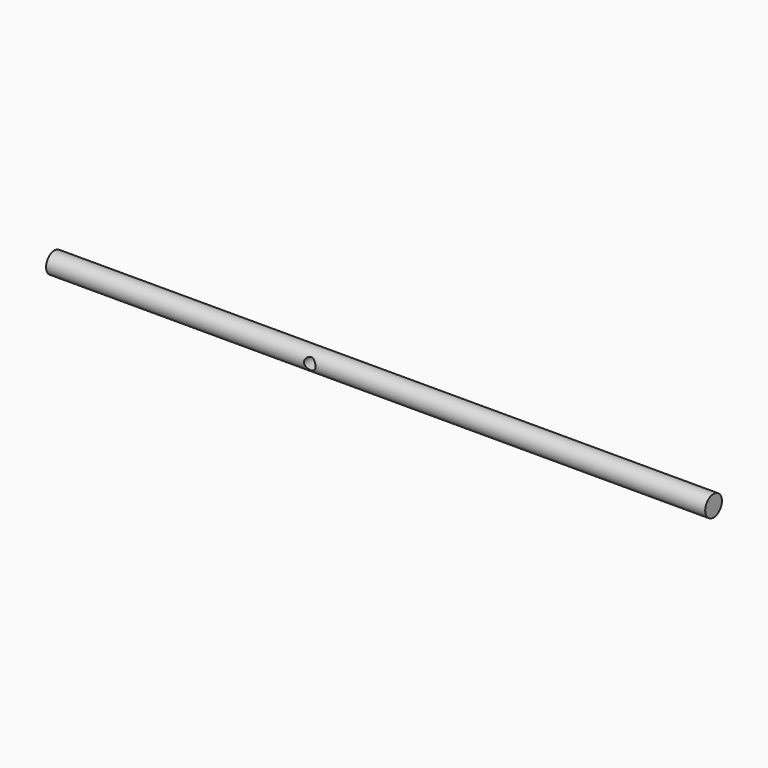
from build123d import *

# Parameters (mm, degrees)
F0_R     = 15.857411
F1_DEPTH = 1000
F2_R     = 8.765925
F3_DEPTH = 25


with BuildPart() as f1:
    # F0 (on Right) → F1 (new body)
    with BuildSketch(Plane.YZ):
        Circle(F0_R)
    extrude(amount=F1_DEPTH)

    # F2 (on Front) → F3 (cut, symmetric)
    with BuildSketch(Plane.XZ):
        with Locations((400, 0)):
            Circle(F2_R)
    extrude(amount=F3_DEPTH, both=True, mode=Mode.SUBTRACT)


solid = f1.part
